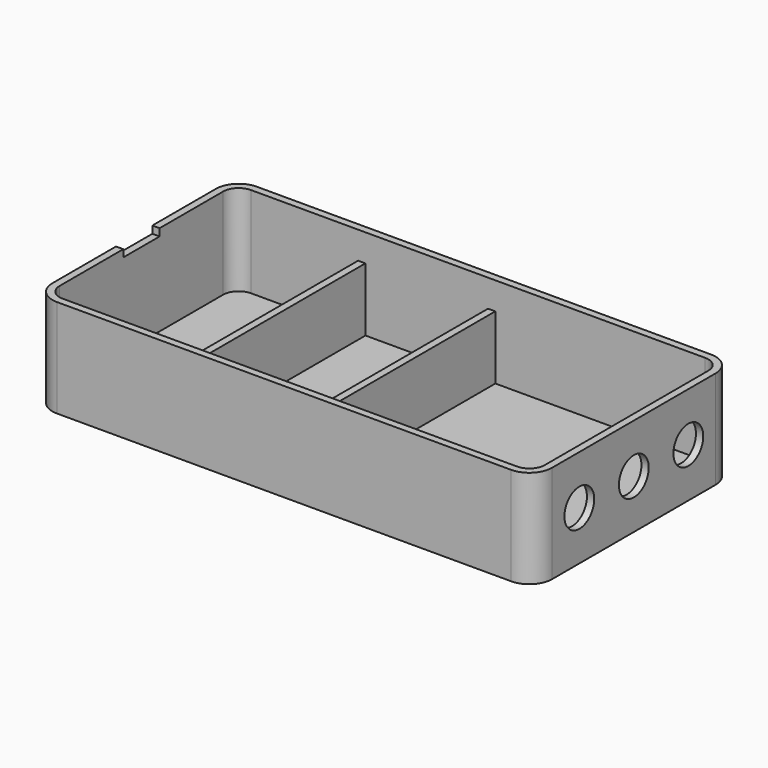
from build123d import *

# Parameters (mm, degrees)
F0_W      = 110
F0_H      = 55
F1_DEPTH  = 21.6
F2_R      = 5
F3_T      = -1.6
F5_W      = 1.6
F5_H      = 51.8
F6_DEPTH  = 14
F7_W      = 10
F7_H      = 1.6
F8_DEPTH  = 1.6
F9_R      = 4.1
F10_DEPTH = 3


with BuildPart() as f1:
    # F0 (on Top) → F1 (new body)
    with BuildSketch(Plane.XY):
        Rectangle(F0_W, F0_H)
    extrude(amount=F1_DEPTH)

    # F2
    f2_edges = [f1.edges().sort_by_distance(p)[0] for p in [
        (-55, -27.5, 10.8),
        (55, -27.5, 10.8),
        (55, 27.5, 10.8),
        (-55, 27.5, 10.8),
    ]]
    fillet(f2_edges, radius=F2_R)

    # F3
    f3_openings = [f1.faces().sort_by_distance(p)[0] for p in [
        (0, 0, 21.6),
    ]]
    offset(amount=F3_T, openings=f3_openings)

    # F5 (on face) → F6 (join)
    with BuildSketch(Plane.XY.offset(1.6)):
        with Locations((-25.6, -0.028194)):
            Rectangle(F5_W, F5_H)
        with Locations((3, -0.028194)):
            Rectangle(F5_W, F5_H)
    extrude(amount=F6_DEPTH)

    # F7 (on face) → F8 (cut, through all)
    with BuildSketch(Plane(origin=(-55, 0, 0), x_dir=(0, -1, 0), z_dir=(-1, 0, 0))):
        with Locations((0, 20.8)):
            Rectangle(F7_W, F7_H)
    extrude(amount=-F8_DEPTH, mode=Mode.SUBTRACT)

    # F9 (on face) → F10 (cut)
    with BuildSketch(Plane.YZ.offset(55)):
        with Locations((0, 10.8)):
            Circle(F9_R)
        with Locations((-15, 10.8)):
            Circle(F9_R)
        with Locations((15, 10.8)):
            Circle(F9_R)
    extrude(amount=-F10_DEPTH, mode=Mode.SUBTRACT)


solid = f1.part
